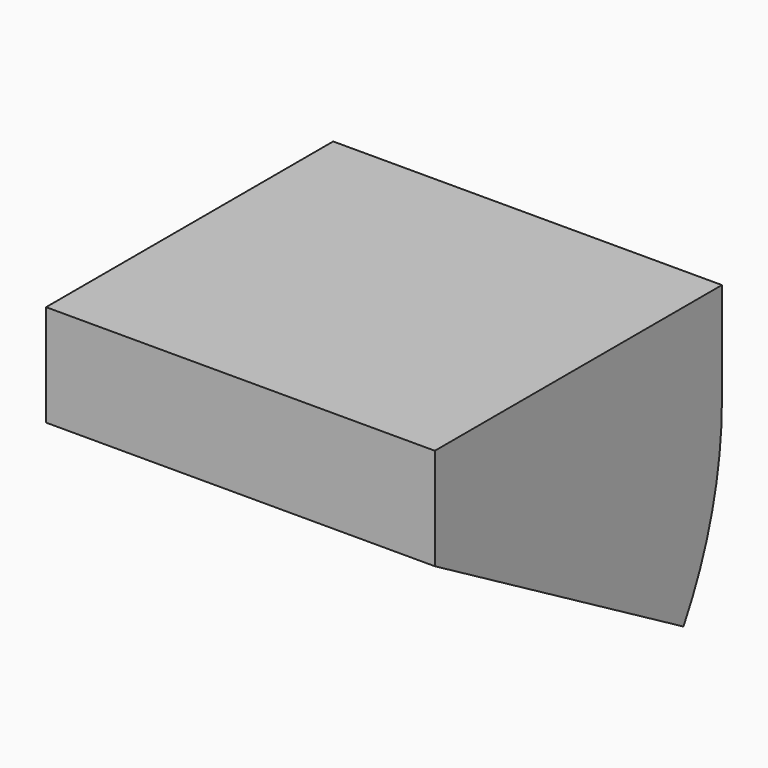
from build123d import *

# Parameters (mm, degrees)
F0_W     = 130
F0_H     = 120
F1_DEPTH = 34
F2_ANGLE = 30
F3_W     = 98
F3_H     = 78
F4_DEPTH = 25
F6_DEPTH = 16
F7_R     = 0.95
F8_DEPTH = 8


with BuildPart() as f1:
    # F0 (on Top) → F1 (new body)
    with BuildSketch(Plane.XY):
        Rectangle(F0_W, F0_H)
    extrude(amount=F1_DEPTH)

    # F0 (on Top) → F2 (revolve)
    with BuildSketch(Plane.XY):
        Rectangle(F0_W, F0_H)
    revolve(axis=Axis((0, -60, 0), (-1, 0, 0)), revolution_arc=F2_ANGLE)

    # F3 (on face) → F4 (cut)
    with BuildSketch(Plane(origin=(0, -15, -25.9807621135), x_dir=(1, 0, 0), z_dir=(0, -0.5, -0.8660254038))):
        with Locations((0, -8.0384757729)):
            Rectangle(F3_W, F3_H)
    extrude(amount=-F4_DEPTH, mode=Mode.SUBTRACT)

    # F5 (on face) → F6 (cut)
    with BuildSketch(Plane(origin=(-65, 0, 0), x_dir=(0, -1, 0), z_dir=(-1, 0, 0))):
        Polygon((10.832704407, -16.8397459622), (36.8134665205, -1.8397459622), (29.3134665205, 11.1506350946), (3.332704407, -3.8493649054), align=None)
    extrude(amount=-F6_DEPTH, mode=Mode.SUBTRACT)

    # F7 (on face) → F8 (cut)
    with BuildSketch(Plane(origin=(0, -15, -25.9807621135), x_dir=(1, 0, 0), z_dir=(0, -0.5, -0.8660254038))):
        with Locations((57, 41.4615242271)):
            Circle(F7_R)
        with Locations((-57, 41.4615242271)):
            Circle(F7_R)
        with Locations((-57, -57.5384757729)):
            Circle(F7_R)
        with Locations((57, -57.5384757729)):
            Circle(F7_R)
    extrude(amount=-F8_DEPTH, mode=Mode.SUBTRACT)


solid = f1.part
